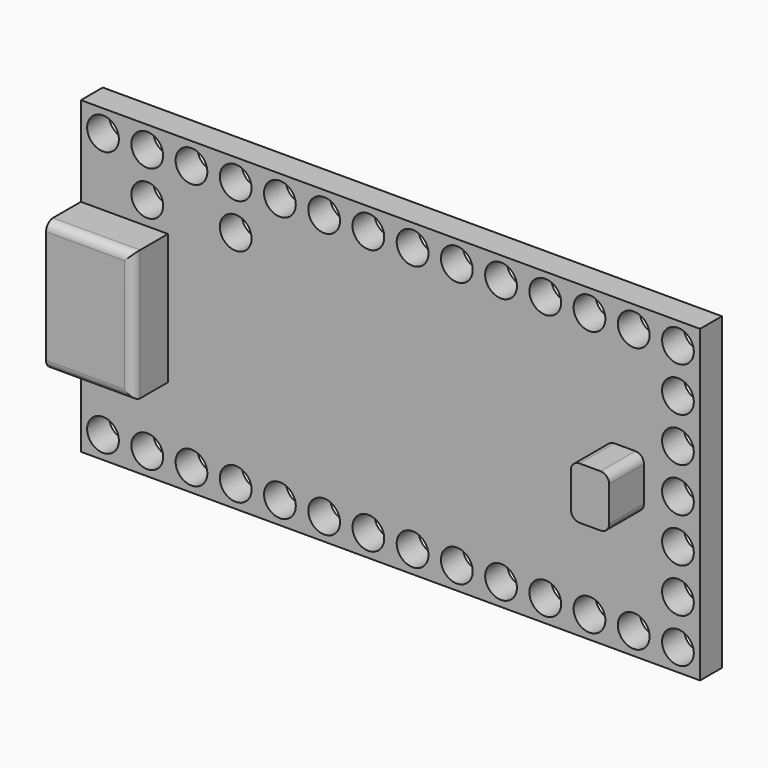
from build123d import *

# Parameters (mm, degrees)
F0_W     = 35.56
F0_H     = 17.78
F0_R     = 0.912
F1_DEPTH = 1.57
F3_DEPTH = 2.5
F4_R     = 0.5
F6_DEPTH = 2.5
F7_R     = 0.5


with BuildPart() as f1:
    # F0 (on Front) → F1 (new body)
    with BuildSketch(Plane.XZ):
        with Locations((17.78, 8.89)):
            Rectangle(F0_W, F0_H)
        with Locations((1.27, 1.27)):
            Circle(F0_R, mode=Mode.SUBTRACT)
        with Locations((3.81, 1.27)):
            Circle(F0_R, mode=Mode.SUBTRACT)
        with Locations((6.35, 1.27)):
            Circle(F0_R, mode=Mode.SUBTRACT)
        with Locations((8.89, 1.27)):
            Circle(F0_R, mode=Mode.SUBTRACT)
        with Locations((11.43, 1.27)):
            Circle(F0_R, mode=Mode.SUBTRACT)
        with Locations((13.97, 1.27)):
            Circle(F0_R, mode=Mode.SUBTRACT)
        with Locations((16.51, 1.27)):
            Circle(F0_R, mode=Mode.SUBTRACT)
        with Locations((19.05, 1.27)):
            Circle(F0_R, mode=Mode.SUBTRACT)
        with Locations((21.59, 1.27)):
            Circle(F0_R, mode=Mode.SUBTRACT)
        with Locations((24.13, 1.27)):
            Circle(F0_R, mode=Mode.SUBTRACT)
        with Locations((26.67, 1.27)):
            Circle(F0_R, mode=Mode.SUBTRACT)
        with Locations((29.21, 1.27)):
            Circle(F0_R, mode=Mode.SUBTRACT)
        with Locations((31.75, 1.27)):
            Circle(F0_R, mode=Mode.SUBTRACT)
        with Locations((34.29, 1.27)):
            Circle(F0_R, mode=Mode.SUBTRACT)
        with Locations((34.29, 3.81)):
            Circle(F0_R, mode=Mode.SUBTRACT)
        with Locations((34.29, 6.35)):
            Circle(F0_R, mode=Mode.SUBTRACT)
        with BuildLine():
            ThreePointArc((33.378, 8.89), (34.29, 9.802), (35.202, 8.89))
            ThreePointArc((35.202, 8.89), (34.29, 7.978), (33.378, 8.89))
        make_face(mode=Mode.SUBTRACT)
        with Locations((3.81, 13.97)):
            Circle(F0_R, mode=Mode.SUBTRACT)
        with Locations((8.89, 13.97)):
            Circle(F0_R, mode=Mode.SUBTRACT)
        with Locations((1.27, 16.51)):
            Circle(F0_R, mode=Mode.SUBTRACT)
        with Locations((3.81, 16.51)):
            Circle(F0_R, mode=Mode.SUBTRACT)
        with Locations((6.35, 16.51)):
            Circle(F0_R, mode=Mode.SUBTRACT)
        with Locations((8.89, 16.51)):
            Circle(F0_R, mode=Mode.SUBTRACT)
        with Locations((11.43, 16.51)):
            Circle(F0_R, mode=Mode.SUBTRACT)
        with Locations((13.97, 16.51)):
            Circle(F0_R, mode=Mode.SUBTRACT)
        with Locations((16.51, 16.51)):
            Circle(F0_R, mode=Mode.SUBTRACT)
        with Locations((34.29, 11.43)):
            Circle(F0_R, mode=Mode.SUBTRACT)
        with Locations((19.05, 16.51)):
            Circle(F0_R, mode=Mode.SUBTRACT)
        with Locations((21.59, 16.51)):
            Circle(F0_R, mode=Mode.SUBTRACT)
        with Locations((24.13, 16.51)):
            Circle(F0_R, mode=Mode.SUBTRACT)
        with Locations((34.29, 13.97)):
            Circle(F0_R, mode=Mode.SUBTRACT)
        with Locations((26.67, 16.51)):
            Circle(F0_R, mode=Mode.SUBTRACT)
        with Locations((29.21, 16.51)):
            Circle(F0_R, mode=Mode.SUBTRACT)
        with Locations((31.75, 16.51)):
            Circle(F0_R, mode=Mode.SUBTRACT)
        with Locations((34.29, 16.51)):
            Circle(F0_R, mode=Mode.SUBTRACT)
    extrude(amount=F1_DEPTH)

    # F2 (on face) → F3 (join)
    with BuildSketch(Plane.XZ.offset(1.57)):
        Polygon((5, 12.64), (0, 12.64), (0, 8.89), (0, 5.14), (5, 5.14), (5, 8.89), align=None)
    extrude(amount=F3_DEPTH)

    # F4
    f4_edges = [f1.edges().sort_by_distance(p)[0] for p in [
        (2.5, -4.07, 5.14),
        (2.5, -4.07, 12.64),
        (5, -4.07, 8.89),
    ]]
    fillet(f4_edges, radius=F4_R)

    # F5 (on face) → F6 (join)
    with BuildSketch(Plane.XZ.offset(1.57)):
        Polygon((31.24, 8.89), (30.14, 8.89), (30.14, 7.39), (31.24, 7.39), (32.34, 7.39), (32.34, 8.89), align=None)
        Polygon((30.14, 10.39), (30.14, 8.89), (31.24, 8.89), (32.34, 8.89), (32.34, 10.39), (31.24, 10.39), align=None)
    extrude(amount=F6_DEPTH)

    # F7
    f7_edges = [f1.edges().sort_by_distance(p)[0] for p in [
        (30.14, -2.82, 7.39),
        (32.34, -2.82, 7.39),
        (30.14, -2.82, 10.39),
        (32.34, -2.82, 10.39),
    ]]
    fillet(f7_edges, radius=F7_R)


solid = f1.part
